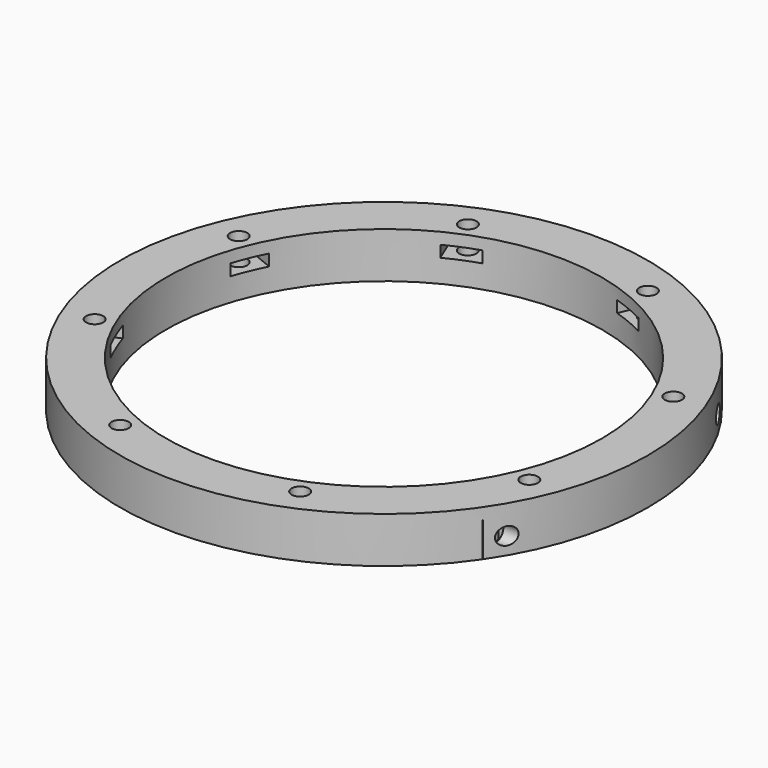
from build123d import *

# Parameters (mm, degrees)
CYLINDER760_R               = 1.5
CYLINDER760_DEPTH           = 60
CYLINDER769_R               = 1.5
CYLINDER769_DEPTH           = 60
CYLINDER745_R               = 1.5
CYLINDER745_DEPTH           = 60
CYLINDER753_R               = 1.5
CYLINDER753_DEPTH           = 60
BOX365_W                    = 2
BOX365_H                    = 6
BOX365_DEPTH                = 6
BOX364_W                    = 2
BOX364_H                    = 6
BOX364_DEPTH                = 6
BOX361_W                    = 2
BOX361_H                    = 6
BOX361_DEPTH                = 6
BOX360_W                    = 2
BOX360_H                    = 6
BOX360_DEPTH                = 6
BOX344_W                    = 8
BOX344_H                    = 6
BOX344_DEPTH                = 2
BOX353_W                    = 8
BOX353_H                    = 6
BOX353_DEPTH                = 2
BOX353_PLACEMENT_ANGLE      = 135
BOX349_W                    = 8
BOX349_H                    = 6
BOX349_DEPTH                = 2
BOX340_W                    = 8
BOX340_H                    = 6
BOX340_DEPTH                = 2
BOX340_PLACEMENT_ANGLE      = 225
BOX347_W                    = 8
BOX347_H                    = 6
BOX347_DEPTH                = 2
BOX346_W                    = 8
BOX346_H                    = 6
BOX346_DEPTH                = 2
BOX346_PLACEMENT_ANGLE      = 45
BOX334_W                    = 8
BOX334_H                    = 6
BOX334_DEPTH                = 2
BOX339_W                    = 8
BOX339_H                    = 6
BOX339_DEPTH                = 2
BOX339_PLACEMENT_ANGLE      = 45
COMPOUND719_PLACEMENT_ANGLE = 22.5
CYLINDER731_R               = 1.5
CYLINDER731_DEPTH           = 60
CYLINDER736_R               = 1.5
CYLINDER736_DEPTH           = 60
CYLINDER736_PLACEMENT_ANGLE = 135
CYLINDER725_R               = 1.5
CYLINDER725_DEPTH           = 60
CYLINDER727_R               = 1.5
CYLINDER727_DEPTH           = 60
CYLINDER727_PLACEMENT_ANGLE = 225
CYLINDER726_R               = 1.5
CYLINDER726_DEPTH           = 60
CYLINDER728_R               = 1.5
CYLINDER728_DEPTH           = 60
CYLINDER728_PLACEMENT_ANGLE = 45
CYLINDER714_R               = 1.5
CYLINDER714_DEPTH           = 60
CYLINDER723_R               = 1.5
CYLINDER723_DEPTH           = 60
CYLINDER723_PLACEMENT_ANGLE = 45
COMPOUND727_PLACEMENT_ANGLE = 22.5
TUBE077_R                   = 46
TUBE077_R_2                 = 38
TUBE077_DEPTH               = 8


with BuildPart() as obj1:
    # Cylinder760 → Cylinder760 (new body)
    with BuildSketch(Plane(origin=(32, -23, -5), x_dir=(0, 0, -1), z_dir=(1, 0, 0))):
        Circle(CYLINDER760_R)
    extrude(amount=CYLINDER760_DEPTH)


with BuildPart() as obj2:
    # Cylinder769 → Cylinder769 (new body)
    with BuildSketch(Plane(origin=(28, 51, 7), x_dir=(0, 0, -1), z_dir=(1, 0, 0))):
        Circle(CYLINDER769_R)
    extrude(amount=CYLINDER769_DEPTH)


with BuildPart() as obj3:
    # Cylinder745 → Cylinder745 (new body)
    with BuildSketch(Plane(origin=(28, -51, 7), x_dir=(0, 0, -1), z_dir=(1, 0, 0))):
        Circle(CYLINDER745_R)
    extrude(amount=CYLINDER745_DEPTH)


with BuildPart() as compound704:
    # Cylinder753 → Cylinder753 (new body)
    with BuildSketch(Plane(origin=(32, 23, -5), x_dir=(0, 0, -1), z_dir=(1, 0, 0))):
        Circle(CYLINDER753_R)
    extrude(amount=CYLINDER753_DEPTH)

    # Compound704: union obj1, obj2, obj3
    add(obj1.part)
    add(obj2.part)
    add(obj3.part)


with BuildPart() as krychle365:
    # Box365 → Box365 (new body)
    with BuildSketch(Plane(origin=(36, -26, -8), x_dir=(1, 0, 0), z_dir=(0, 0, 1))):
        with Locations((1, 3)):
            Rectangle(BOX365_W, BOX365_H)
    extrude(amount=BOX365_DEPTH)


with BuildPart() as krychle364:
    # Box364 → Box364 (new body)
    with BuildSketch(Plane(origin=(32, 48, 4), x_dir=(1, 0, 0), z_dir=(0, 0, 1))):
        with Locations((1, 3)):
            Rectangle(BOX364_W, BOX364_H)
    extrude(amount=BOX364_DEPTH)


with BuildPart() as krychle361:
    # Box361 → Box361 (new body)
    with BuildSketch(Plane(origin=(32, -54, 4), x_dir=(1, 0, 0), z_dir=(0, 0, 1))):
        with Locations((1, 3)):
            Rectangle(BOX361_W, BOX361_H)
    extrude(amount=BOX361_DEPTH)


with BuildPart() as compound725:
    # Box360 → Box360 (new body)
    with BuildSketch(Plane(origin=(36, 20, -8), x_dir=(1, 0, 0), z_dir=(0, 0, 1))):
        with Locations((1, 3)):
            Rectangle(BOX360_W, BOX360_H)
    extrude(amount=BOX360_DEPTH)

    # Compound725: union Krychle365, Krychle364, Krychle361
    add(krychle365.part)
    add(krychle364.part)
    add(krychle361.part)


with BuildPart() as krychle344:
    # Box344 → Box344 (new body)
    with BuildSketch(Plane(origin=(3, 37, -4), x_dir=(0, 1, 0), z_dir=(0, 0, 1))):
        with Locations((4, 3)):
            Rectangle(BOX344_W, BOX344_H)
    extrude(amount=BOX344_DEPTH)


with BuildPart() as krychle353:
    # Box353 → Box353 (new body)
    with BuildSketch(Plane.XY):
        with Locations((4, 3)):
            Rectangle(BOX353_W, BOX353_H)
    extrude(amount=BOX353_DEPTH)


with BuildPart() as krychle353_1:
    # Box353 placement: moved
    add(krychle353.part.moved(Location((-24.041631, 28.284271, -4))).rotate(Axis((-24.041631, 28.284271, -4), (0, 0, 1)), BOX353_PLACEMENT_ANGLE))


with BuildPart() as krychle349:
    # Box349 → Box349 (new body)
    with BuildSketch(Plane(origin=(-37, 3, -4), x_dir=(-1, 0, 0), z_dir=(0, 0, 1))):
        with Locations((4, 3)):
            Rectangle(BOX349_W, BOX349_H)
    extrude(amount=BOX349_DEPTH)


with BuildPart() as krychle340:
    # Box340 → Box340 (new body)
    with BuildSketch(Plane.XY):
        with Locations((4, 3)):
            Rectangle(BOX340_W, BOX340_H)
    extrude(amount=BOX340_DEPTH)


with BuildPart() as krychle340_1:
    # Box340 placement: moved
    add(krychle340.part.moved(Location((-28.284271, -24.041631, -4))).rotate(Axis((-28.284271, -24.041631, -4), (0, 0, 1)), BOX340_PLACEMENT_ANGLE))


with BuildPart() as krychle347:
    # Box347 → Box347 (new body)
    with BuildSketch(Plane(origin=(-3, -37, -4), x_dir=(0, -1, 0), z_dir=(0, 0, 1))):
        with Locations((4, 3)):
            Rectangle(BOX347_W, BOX347_H)
    extrude(amount=BOX347_DEPTH)


with BuildPart() as krychle346:
    # Box346 → Box346 (new body)
    with BuildSketch(Plane.XY):
        with Locations((4, 3)):
            Rectangle(BOX346_W, BOX346_H)
    extrude(amount=BOX346_DEPTH)


with BuildPart() as krychle346_1:
    # Box346 placement: moved
    add(krychle346.part.moved(Location((24.041631, -28.284271, -4))).rotate(Axis((24.041631, -28.284271, -4), (0, 0, -1)), BOX346_PLACEMENT_ANGLE))


with BuildPart() as krychle334:
    # Box334 → Box334 (new body)
    with BuildSketch(Plane(origin=(37, -3, -4), x_dir=(1, 0, 0), z_dir=(0, 0, 1))):
        with Locations((4, 3)):
            Rectangle(BOX334_W, BOX334_H)
    extrude(amount=BOX334_DEPTH)


with BuildPart() as compound719:
    # Box339 → Box339 (new body)
    with BuildSketch(Plane.XY):
        with Locations((4, 3)):
            Rectangle(BOX339_W, BOX339_H)
    extrude(amount=BOX339_DEPTH)


with BuildPart() as compound719_1:
    # Box339 placement: moved
    add(compound719.part.moved(Location((28.284271, 24.041631, -4))).rotate(Axis((28.284271, 24.041631, -4), (0, 0, 1)), BOX339_PLACEMENT_ANGLE))

    # Compound719: union Krychle344, Krychle353, Krychle349, Krychle340, Krychle347, Krychle346, Krychle334
    add(krychle344.part)
    add(krychle353_1.part)
    add(krychle349.part)
    add(krychle340_1.part)
    add(krychle347.part)
    add(krychle346_1.part)
    add(krychle334.part)


with BuildPart() as compound719_2:
    # Compound719 placement: moved
    add(compound719_1.part.rotate(Axis((0, 0, 0), (0, 0, 1)), COMPOUND719_PLACEMENT_ANGLE))


with BuildPart() as obj4:
    # Cylinder731 → Cylinder731 (new body)
    with BuildSketch(Plane(origin=(0, 41, -54), x_dir=(0, 1, 0), z_dir=(0, 0, 1))):
        Circle(CYLINDER731_R)
    extrude(amount=CYLINDER731_DEPTH)


with BuildPart() as obj5:
    # Cylinder736 → Cylinder736 (new body)
    with BuildSketch(Plane.XY):
        Circle(CYLINDER736_R)
    extrude(amount=CYLINDER736_DEPTH)


with BuildPart() as obj5_1:
    # Cylinder736 placement: moved
    add(obj5.part.moved(Location((-28.991378, 28.991378, -54))).rotate(Axis((-28.991378, 28.991378, -54), (0, 0, 1)), CYLINDER736_PLACEMENT_ANGLE))


with BuildPart() as obj6:
    # Cylinder725 → Cylinder725 (new body)
    with BuildSketch(Plane(origin=(-41, 0, -54), x_dir=(-1, 0, 0), z_dir=(0, 0, 1))):
        Circle(CYLINDER725_R)
    extrude(amount=CYLINDER725_DEPTH)


with BuildPart() as obj7:
    # Cylinder727 → Cylinder727 (new body)
    with BuildSketch(Plane.XY):
        Circle(CYLINDER727_R)
    extrude(amount=CYLINDER727_DEPTH)


with BuildPart() as obj7_1:
    # Cylinder727 placement: moved
    add(obj7.part.moved(Location((-28.991378, -28.991378, -54))).rotate(Axis((-28.991378, -28.991378, -54), (0, 0, 1)), CYLINDER727_PLACEMENT_ANGLE))


with BuildPart() as obj8:
    # Cylinder726 → Cylinder726 (new body)
    with BuildSketch(Plane(origin=(0, -41, -54), x_dir=(0, -1, 0), z_dir=(0, 0, 1))):
        Circle(CYLINDER726_R)
    extrude(amount=CYLINDER726_DEPTH)


with BuildPart() as obj9:
    # Cylinder728 → Cylinder728 (new body)
    with BuildSketch(Plane.XY):
        Circle(CYLINDER728_R)
    extrude(amount=CYLINDER728_DEPTH)


with BuildPart() as obj9_1:
    # Cylinder728 placement: moved
    add(obj9.part.moved(Location((28.991378, -28.991378, -54))).rotate(Axis((28.991378, -28.991378, -54), (0, 0, -1)), CYLINDER728_PLACEMENT_ANGLE))


with BuildPart() as obj10:
    # Cylinder714 → Cylinder714 (new body)
    with BuildSketch(Plane(origin=(41, 0, -54), x_dir=(1, 0, 0), z_dir=(0, 0, 1))):
        Circle(CYLINDER714_R)
    extrude(amount=CYLINDER714_DEPTH)


with BuildPart() as compound727:
    # Cylinder723 → Cylinder723 (new body)
    with BuildSketch(Plane.XY):
        Circle(CYLINDER723_R)
    extrude(amount=CYLINDER723_DEPTH)


with BuildPart() as compound727_1:
    # Cylinder723 placement: moved
    add(compound727.part.moved(Location((28.991378, 28.991378, -54))).rotate(Axis((28.991378, 28.991378, -54), (0, 0, 1)), CYLINDER723_PLACEMENT_ANGLE))

    # Compound727: union obj4, obj5, obj6, obj7, obj8, obj9, obj10
    add(obj4.part)
    add(obj5_1.part)
    add(obj6.part)
    add(obj7_1.part)
    add(obj8.part)
    add(obj9_1.part)
    add(obj10.part)


with BuildPart() as compound727_2:
    # Compound727 placement: moved
    add(compound727_1.part.rotate(Axis((0, 0, 0), (0, 0, 1)), COMPOUND727_PLACEMENT_ANGLE))


with BuildPart() as cut348:
    # Tube077 → Tube077 (new body)
    with BuildSketch(Plane.XY.offset(-8)):
        Circle(TUBE077_R)
        Circle(TUBE077_R_2, mode=Mode.SUBTRACT)
    extrude(amount=TUBE077_DEPTH)

    # Cut341: cut Compound727
    add(compound727_2.part, mode=Mode.SUBTRACT)

    # Cut350: cut Compound719
    add(compound719_2.part, mode=Mode.SUBTRACT)

    # Cut349: cut Compound725
    add(compound725.part, mode=Mode.SUBTRACT)

    # Cut348: cut Compound704
    add(compound704.part, mode=Mode.SUBTRACT)


solid = cut348.part
